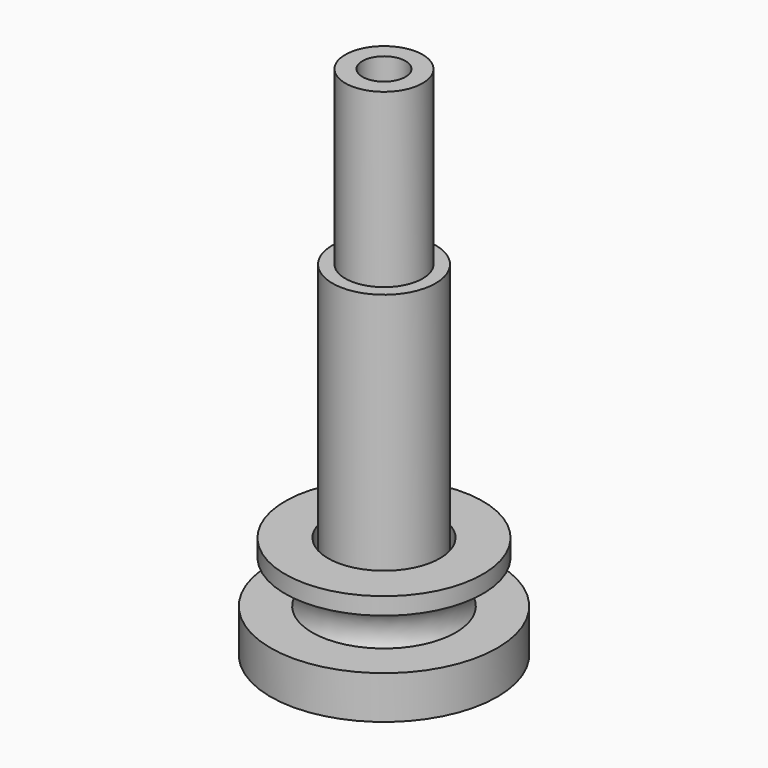
from build123d import *

# Parameters (mm, degrees)
F0_R     = 6
F1_DEPTH = 40
F3_R     = 4.5
F3_R_2   = 2.5
F4_DEPTH = 20
F0_R_2   = 13.1937102496
F8_DEPTH = 5


with BuildPart() as f1:
    # F0 (on Top) → F1 (new body)
    with BuildSketch(Plane.XY):
        Circle(F0_R)
    extrude(amount=F1_DEPTH)


with BuildPart() as f4:
    # F3 (on offset) → F4 (new body)
    with BuildSketch(Plane.XY.offset(40)):
        Circle(F3_R)
        Circle(F3_R_2, mode=Mode.SUBTRACT)
    extrude(amount=F4_DEPTH)


with BuildPart() as f7:
    # F6 (on Right) → F7 (revolve)
    with BuildSketch(Plane.YZ):
        with BuildLine():
            Line((-11.4999981597, 1.0000000475), (-6.4999981597, 1.0000000475))
            Line((-6.4999981597, 1.0000000475), (-6.4999981597, 12.0000000475))
            Line((-6.4999981597, 12.0000000475), (-11.4999981597, 12.0000000475))
            Line((-11.4999981597, 12.0000000475), (-11.4999981597, 10.0000000475))
            ThreePointArc((-11.4999981597, 10.0000000475), (-7.9999981597, 6.5000000475), (-11.4999981597, 3.0000000475))
            Line((-11.4999981597, 3.0000000475), (-11.4999981597, 1.0000000475))
        make_face()
    revolve(axis=Axis((0, 0, 0), (0, 0, -1)))


with BuildPart() as f8:
    # F0 (on Top) → F8 (new body)
    with BuildSketch(Plane.XY):
        Circle(F0_R_2)
        Circle(F0_R, mode=Mode.SUBTRACT)
    extrude(amount=F8_DEPTH)


solid = Compound([f1.part, f4.part, f7.part, f8.part])
